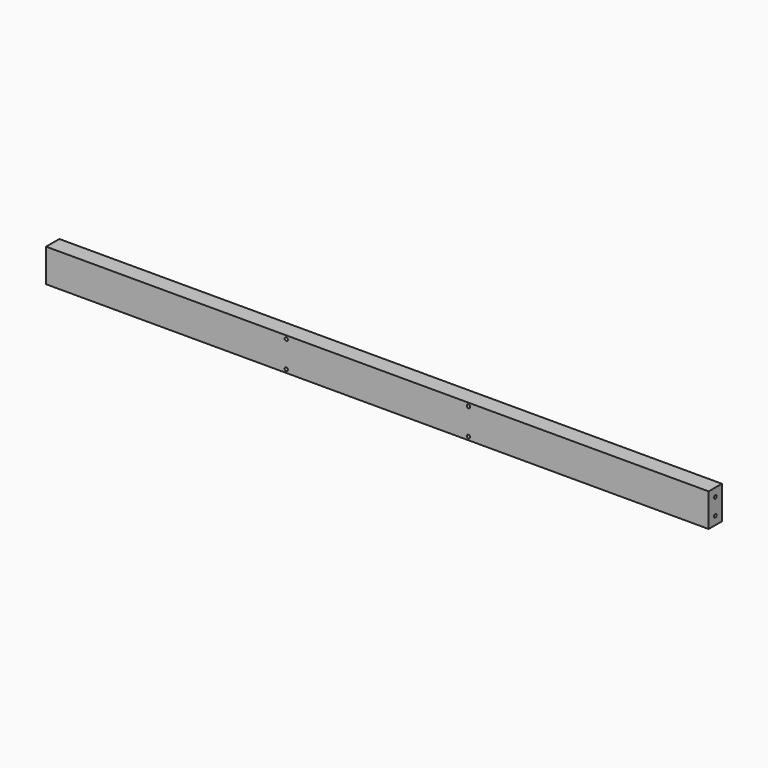
from build123d import *

# Parameters (mm, degrees)
F0_W     = 2000
F0_H     = 100
F1_DEPTH = 50
F3_R     = 5
F4_DEPTH = 25
F2_R     = 5
F5_DEPTH = 25
F5_TAPER = -3
F6_R     = 5
F7_DEPTH = 50


with BuildPart() as f1:
    # F0 (on Front) → F1 (new body)
    with BuildSketch(Plane.XZ):
        Rectangle(F0_W, F0_H)
    extrude(amount=F1_DEPTH)

    # F3 (on face) → F4 (cut)
    with BuildSketch(Plane(origin=(-1000, 0, 0), x_dir=(0, -1, 0), z_dir=(-1, 0, 0))):
        with Locations((25, 25)):
            Circle(F3_R)
        with Locations((25, -25)):
            Circle(F3_R)
    extrude(amount=-F4_DEPTH, mode=Mode.SUBTRACT)

    # F2 (on face) → F5 (cut)
    with BuildSketch(Plane.YZ.offset(1000)):
        with Locations((-25, -25)):
            Circle(F2_R)
        with Locations((-25, 25)):
            Circle(F2_R)
    extrude(amount=-F5_DEPTH, taper=F5_TAPER, mode=Mode.SUBTRACT)

    # F6 (on face) → F7 (cut)
    with BuildSketch(Plane.XZ.offset(50)):
        with Locations((-275, 40)):
            Circle(F6_R)
        with Locations((-275, -40)):
            Circle(F6_R)
        with Locations((275, 40)):
            Circle(F6_R)
        with Locations((275, -40)):
            Circle(F6_R)
    extrude(amount=-F7_DEPTH, mode=Mode.SUBTRACT)


solid = f1.part
